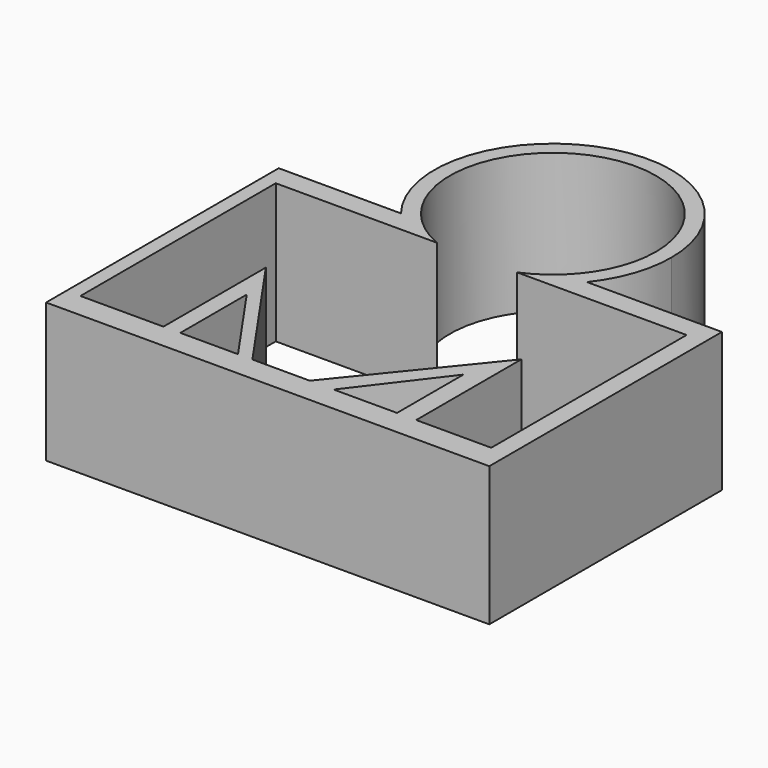
from build123d import *

# Parameters (mm, degrees)
F1_DEPTH = 27.686


with BuildPart() as f1:
    # F0 (on Top) → F1 (new body)
    with BuildSketch(Plane.XY):
        with BuildLine():
            ThreePointArc((-7.984679, -18.871297), (-11.319605, 17.080618), (20.490997, 0))
            ThreePointArc((20.490997, 0), (17.080618, -11.319605), (7.984679, -18.871297))
            Line((7.984679, -18.871297), (14.139757, -18.871297))
            ThreePointArc((14.139757, -18.871297), (16.449072, -16.896349), (18.485251, -14.640837))
            ThreePointArc((18.485251, -14.640837), (22.270579, -7.751124), (23.580895, 0))
            ThreePointArc((23.580895, 0), (-7.751124, 22.270579), (-18.485251, -14.640837))
            ThreePointArc((-18.485251, -14.640837), (-16.449072, -16.896349), (-14.139757, -18.871297))
            Line((-14.139757, -18.871297), (-7.984679, -18.871297))
        make_face()
        with BuildLine():
            Line((-40.005073, -18.871297), (-14.139757, -18.871297))
            ThreePointArc((-14.139757, -18.871297), (-16.449072, -16.896349), (-18.485251, -14.640837))
            Line((-18.485251, -14.640837), (-42.802565, -14.640837))
            Line((-42.802565, -14.640837), (-42.802565, -72.456613))
            Line((-42.802565, -72.456613), (-23.49944, -72.456613))
            Line((-23.49944, -72.456613), (-23.49944, -67.421012))
            Line((-23.49944, -67.421012), (-40.005073, -67.421012))
            Line((-40.005073, -67.421012), (-40.005073, -18.871297))
        make_face()
        with BuildLine():
            ThreePointArc((18.485251, -14.640837), (16.449072, -16.896349), (14.139757, -18.871297))
            Line((14.139757, -18.871297), (41.683532, -18.871297))
            Line((41.683532, -18.871297), (41.683532, -67.421012))
            Line((41.683532, -67.421012), (26.762667, -67.421012))
            Line((26.762667, -67.421012), (26.762667, -72.456613))
            Line((26.762667, -72.456613), (45.320351, -72.456613))
            Line((45.320351, -72.456613), (45.320351, -14.640837))
            Line((45.320351, -14.640837), (18.485251, -14.640837))
        make_face()
        Polygon((-20.142378, -67.421012), (-23.49944, -67.421012), (-23.49944, -72.456613), (-2.309161, -72.456613), (-5.808478, -67.421012), (-8.672413, -67.421012), align=None)
        Polygon((26.762667, -72.456613), (26.762667, -67.421012), (22.93993, -67.421012), (10.350944, -67.421012), (5.582281, -67.421012), (1.503095, -72.456613), (5.31535, -72.456613), align=None)
        Polygon((-5.808478, -67.421012), (-2.309161, -72.456613), (1.503095, -72.456613), (5.582281, -67.421012), align=None)
        Polygon((22.93993, -67.421012), (26.762667, -67.421012), (26.762667, -41.274629), (24.61846, -43.921571), (5.582281, -67.421012), (10.350944, -67.421012), (22.93993, -50.915454), align=None)
        Polygon((-23.49944, -41.963287), (-23.49944, -67.421012), (-20.142378, -67.421012), (-20.142378, -50.915454), (-8.672413, -67.421012), (-5.808478, -67.421012), align=None)
    extrude(amount=F1_DEPTH)


solid = f1.part
